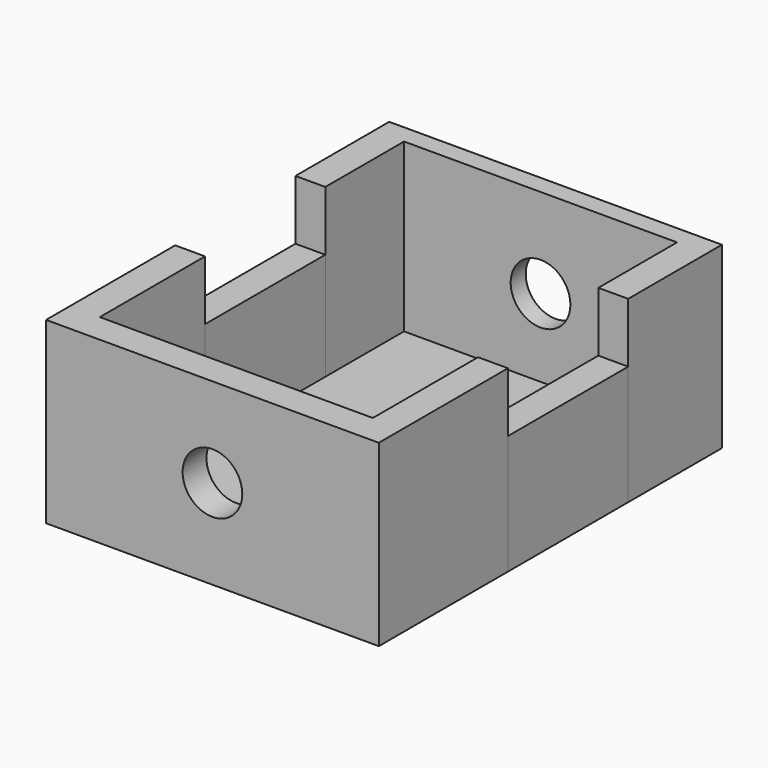
from build123d import *

# Parameters (mm, degrees)
F1_DEPTH = 38.1
F0_W     = 6.35
F0_H     = 31.985192
F2_DEPTH = 25.4
F3_DEPTH = 2.54
F5_D     = 12.7


with BuildPart() as f1:
    # F0 (on Top) → F1 (new body)
    with BuildSketch(Plane.XY):
        Polygon((-37.5034, -9.481436), (-43.8534, -9.481436), (-43.8534, -43.818482), (26.937354, -43.818482), (26.937354, -9.481436), (20.587354, -9.481436), (20.587354, -37.46848), (-37.5034, -37.46848), align=None)
        Polygon((26.937354, 47.433388), (-43.8534, 47.433388), (-43.8534, 22.503756), (-37.5034, 22.503756), (-37.5034, 43.435241), (20.587354, 43.435241), (20.587354, 22.503756), (26.937354, 22.503756), align=None)
    extrude(amount=F1_DEPTH)

    # F5 (through all)
    with Locations(Plane(origin=(0, 47.433388, 0), x_dir=(-1, 0, 0), z_dir=(0, 1, 0))):
        with Locations((8.458023, 19.05)):
            Hole(F5_D / 2)


with BuildPart() as f2:
    # F0 (on Top) → F2 (new body)
    with BuildSketch(Plane.XY):
        with Locations((-40.6784, 6.51116)):
            Rectangle(F0_W, F0_H)
        with Locations((23.762354, 6.51116)):
            Rectangle(F0_W, F0_H)
    extrude(amount=F2_DEPTH)


with BuildPart() as f3:
    # F0 (on Top) → F3 (new body)
    with BuildSketch(Plane.XY):
        Polygon((-37.5034, 43.435241), (-37.5034, 22.503756), (-37.5034, -9.481436), (-37.5034, -37.46848), (20.587354, -37.46848), (20.587354, -9.481436), (20.587354, 22.503756), (20.587354, 43.435241), align=None)
    extrude(amount=F3_DEPTH)


solid = Compound([f1.part, f2.part, f3.part])
